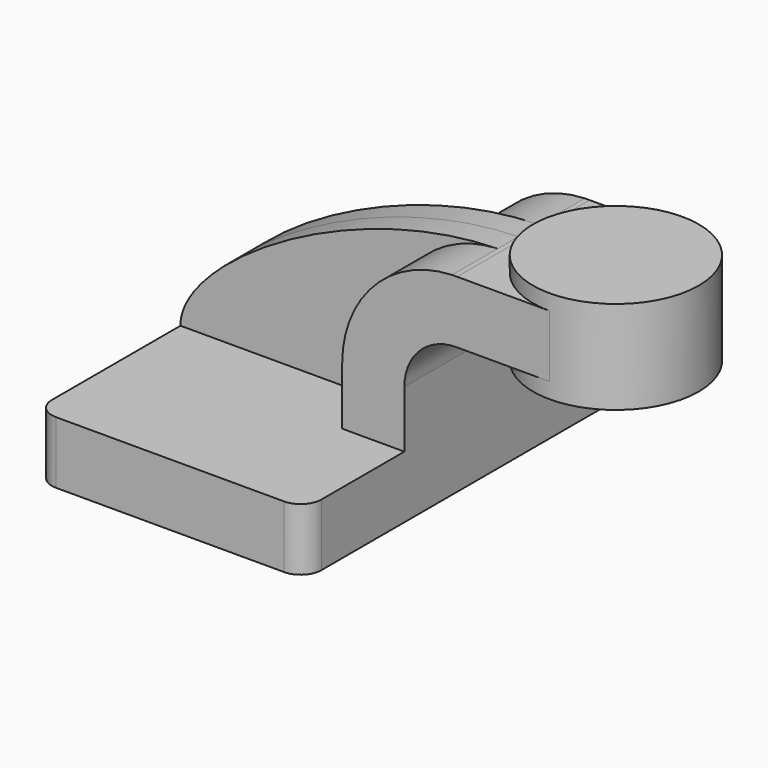
from build123d import *

# Parameters (mm, degrees)
F1_DEPTH = 63.5
F0_W     = 25.4
F0_H     = 19.0499988828
F2_DEPTH = 25.4
F3_DEPTH = 7.9375
F0_H_2   = 4.7498011172
F5_R     = 6.35


with BuildPart() as f1:
    # F0 (on Front) → F1 (new body, symmetric)
    with BuildSketch(Plane.XZ):
        Polygon((-41.275, -9.525), (41.275, -9.525), (41.275, 9.525), (22.2250011172, 9.525), (-41.275, 9.525), align=None)
    extrude(amount=F1_DEPTH, both=True)

    # F0 (on Front) → F2 (join, symmetric)
    with BuildSketch(Plane.XZ):
        with BuildLine():
            Line((22.2250011172, 9.525), (41.275, 9.525))
            Line((41.275, 9.525), (41.275, 27.0012465922))
            ThreePointArc((41.275, 27.0012465922), (45.989313778, 38.2908306436), (57.332286054, 42.8752))
            Line((57.332286054, 42.8752), (60.325, 42.8752))
            Line((60.325, 42.8752), (60.325, 61.9251988828))
            Line((60.325, 61.9251988828), (57.420376338, 61.9251988828))
            add(Edge.make_bspline(
                [(55.8653542089, 61.902610923), (56.3842660516, 61.9141182995), (56.9026324706, 61.9216689247), (57.420376338, 61.9251988828)],
                knots=[110.5091164391, 110.5091164391, 110.5091164391, 110.5091164391, 111.7432689403, 111.7432689403, 111.7432689403, 111.7432689403], degree=3))
            ThreePointArc((55.8653542089, 61.902610923), (32.0042071135, 51.2385040086), (22.2250011172, 27.0012465922))
            Line((22.2250011172, 27.0012465922), (22.2250011172, 9.525))
        make_face()
        with Locations((73.025, 52.4001994414)):
            Rectangle(F0_W, F0_H)
    extrude(amount=F2_DEPTH, both=True)

    # F0 (on Front) → F3 (join, symmetric)
    with BuildSketch(Plane.XZ):
        with BuildLine():
            add(Edge.make_bspline(
                [(-41.275, 9.525), (-41.4371192088, 28.1171277164), (9.4006837592, 60.8722115153), (55.8653542089, 61.902610923)],
                knots=[0, 0, 0, 0, 110.5091164391, 110.5091164391, 110.5091164391, 110.5091164391], degree=3))
            Line((-41.275, 9.525), (22.2250011172, 9.525))
            Line((22.2250011172, 9.525), (22.2250011172, 27.0012465922))
            ThreePointArc((22.2250011172, 27.0012465922), (32.0042071135, 51.2385040086), (55.8653542089, 61.902610923))
        make_face()
    extrude(amount=F3_DEPTH, both=True)

    # F0 (on Front) → F4 (revolve)
    with BuildSketch(Plane.XZ):
        with Locations((98.425, 64.3000994414)):
            Rectangle(F0_W, F0_H_2)
        Polygon((85.725, 61.9251988828), (85.725, 42.8752), (85.725, 38.1), (111.125, 38.1), (111.125, 61.9251988828), align=None)
    revolve(axis=Axis((85.725, 0, 52.3875), (0, 0, 1)))

    # F5
    f5_edges = [f1.edges().sort_by_distance(p)[0] for p in [
        (-41.275, -63.5, 0),
        (41.275, -63.5, 0),
        (41.275, 63.5, 0),
        (-41.275, 63.5, 0),
    ]]
    fillet(f5_edges, radius=F5_R)


solid = f1.part
